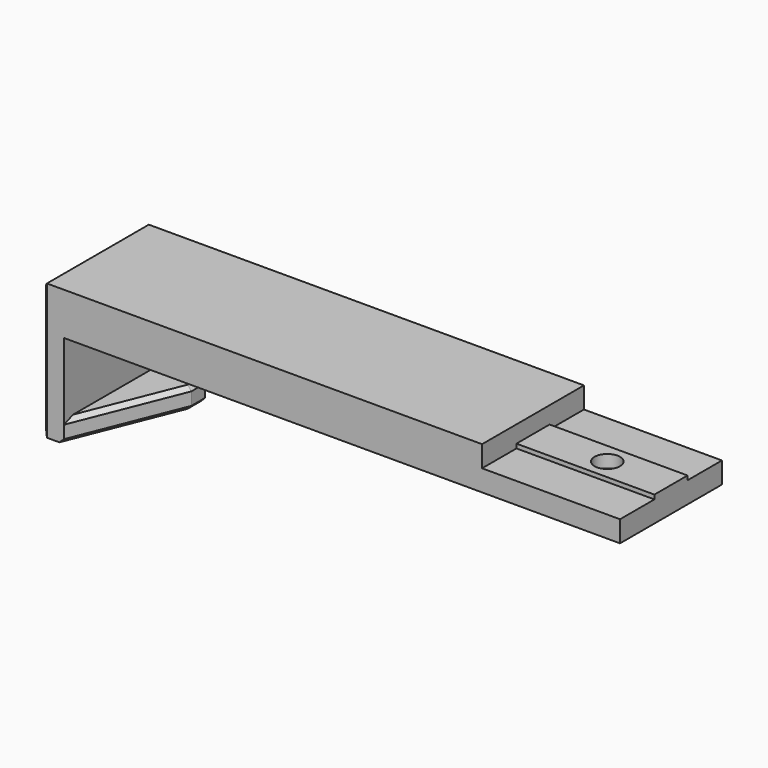
from build123d import *

# Parameters (mm, degrees)
SKETCH027_W      = 136
SKETCH027_H      = 30
PAD009_DEPTH     = 10
SKETCH026_W      = 15
SKETCH026_H      = 30
PAD010_DEPTH     = 22
SKETCH028_W      = 30
SKETCH028_H      = 17
POCKET017_DEPTH  = 10
SKETCH025_R      = 3
POCKET018_DEPTH  = 10.001
SKETCH029_W      = 32.5
SKETCH029_H      = 30
POCKET019_DEPTH  = 5
SKETCH039_R      = 5
POCKET027_DEPTH  = 3
CHAMFER008_SIZE2 = 10
CHAMFER008_SIZE  = 25
CHAMFER009_SIZE  = 1
SKETCH079_W      = 32.5
SKETCH079_H      = 9.75
PAD030_DEPTH     = 1
PAD034_DEPTH     = 1
SKETCH083_R      = 3
POCKET050_DEPTH  = 5


with BuildPart() as part:
    # Sketch027 → Pad009 (new body)
    with BuildSketch(Plane.XY):
        Rectangle(SKETCH027_W, SKETCH027_H)
    extrude(amount=PAD009_DEPTH)

    # Sketch026 (on Face5 of Pad009) → Pad010 (join)
    with BuildSketch(Plane(origin=(0, 0, 0), x_dir=(1, 0, 0), z_dir=(0, 0, -1))):
        with Locations((-60.5, 0)):
            Rectangle(SKETCH026_W, SKETCH026_H)
    extrude(amount=PAD010_DEPTH)

    # Sketch028 (on Face9 of Pad010) → Pocket017 (cut)
    with BuildSketch(Plane.YZ.offset(-53)):
        with Locations((0, -8.5)):
            Rectangle(SKETCH028_W, SKETCH028_H)
    extrude(amount=-POCKET017_DEPTH, mode=Mode.SUBTRACT)

    # Sketch025 (on Face5 of Pocket017) → Pocket018 (cut, through all)
    with BuildSketch(Plane(origin=(0, 0, 0), x_dir=(1, 0, 0), z_dir=(0, 0, -1))):
        with Locations((53, 0)):
            Circle(SKETCH025_R)
    extrude(amount=-POCKET018_DEPTH, mode=Mode.SUBTRACT)

    # Sketch029 → Pocket019 (cut)
    with BuildSketch(Plane.XY.offset(10)):
        with Locations((51.75, 0)):
            Rectangle(SKETCH029_W, SKETCH029_H)
    extrude(amount=-POCKET019_DEPTH, mode=Mode.SUBTRACT)

    # Sketch039 (on Face4 of Pocket019) → Pocket027 (cut)
    with BuildSketch(Plane(origin=(0, 0, 0), x_dir=(1, 0, 0), z_dir=(0, 0, -1))):
        with Locations((53, 0)):
            Circle(SKETCH039_R)
    extrude(amount=-POCKET027_DEPTH, mode=Mode.SUBTRACT)

    # Chamfer008
    chamfer008_edges = [part.edges().sort_by_distance(p)[0] for p in [
        (-53, -15, -19.5),
    ]]
    chamfer008_side = part.faces().sort_by_distance((-53, 0, -19.5))[0]
    chamfer(chamfer008_edges, length=CHAMFER008_SIZE, length2=CHAMFER008_SIZE2, reference=chamfer008_side)

    # Chamfer009
    chamfer009_edges = [part.edges().sort_by_distance(p)[0] for p in [
        (-58, -2.5, -17),
        (-58, -2.5, -22),
        (-53, 12.5, -17),
        (-53, 12.5, -22),
        (-60.5, 15, -22),
        (-53, 15, -19.5),
        (-68, 0, -22),
        (-68, -15, -11),
        (-68, -15, 5),
        (-68, 0, 10),
        (-68, 15, -11),
        (-68, 15, 5),
    ]]
    chamfer(chamfer009_edges, length=CHAMFER009_SIZE)

    # Sketch079 (on Face22 of Chamfer009) → Pad030 (join)
    with BuildSketch(Plane.XY.offset(5)):
        with Locations((51.75, 0)):
            Rectangle(SKETCH079_W, SKETCH079_H)
    extrude(amount=PAD030_DEPTH)

    # Sketch079 (on Face22 of Chamfer009) → Pad034 (join)
    with BuildSketch(Plane.XY.offset(5)):
        with Locations((51.75, 0)):
            Rectangle(SKETCH079_W, SKETCH079_H)
    extrude(amount=PAD034_DEPTH)

    # Sketch083 (on Face34 of Pad034) → Pocket050 (cut)
    with BuildSketch(Plane.XY.offset(6)):
        with Locations((53, 0)):
            Circle(SKETCH083_R)
    extrude(amount=-POCKET050_DEPTH, mode=Mode.SUBTRACT)


solid = part.part
